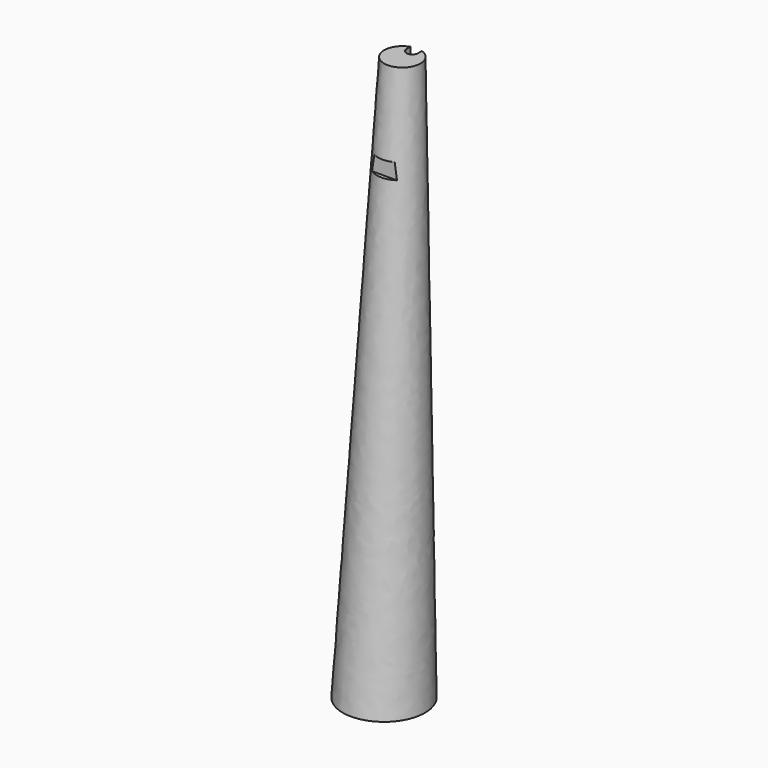
from build123d import *

# Parameters (mm, degrees)
EXTRUDE009_DEPTH       = 500
SKETCH016_W            = 10
SKETCH016_H            = 10
EXTRUDE010_DEPTH       = 4
SKETCH019_R            = 3
EXTRUDE013_DEPTH       = 10.2
SKETCH013_R            = 10.75
SKETCH014_R            = 4.75
CUT008_PLACEMENT_ANGLE = 180


with BuildPart() as mast_slot_tool:
    # Sketch015 (on DatumPlane) → Extrude009 (new body)
    with BuildSketch(Plane(origin=(0, 8, 168), x_dir=(1, 0, 0), z_dir=(0, 0, 1))):
        with BuildLine():
            ThreePointArc((1.5, -8), (0, -6.5), (-1.5, -8))
            Line((-1.5, -8), (-1.5, -13))
            ThreePointArc((-1.5, -13), (0, -14.5), (1.5, -13))
            Line((1.5, -13), (1.5, -8))
        make_face()
    extrude(amount=-EXTRUDE009_DEPTH)


with BuildPart() as mast_zip_tool:
    # Sketch016 (on DatumPlane) → Extrude010 (new body)
    with BuildSketch(Plane.XY.offset(143)):
        with Locations((0, -5)):
            Rectangle(SKETCH016_W, SKETCH016_H)
        with Locations((0, 14.068966)):
            Rectangle(SKETCH016_W, SKETCH016_H)
    extrude(amount=EXTRUDE010_DEPTH)


with BuildPart() as upper_mast_hole:
    # Sketch019 (on DatumPlane) → Extrude013 (new body)
    with BuildSketch(Plane(origin=(0, 20, 23), x_dir=(1, 0, 0), z_dir=(0, 0, 1))):
        with Locations((0, -10.75)):
            Circle(SKETCH019_R)
    extrude(amount=EXTRUDE013_DEPTH)


with BuildPart() as upper_mast:
    # Sketch013 (on DatumPlane) → Loft section 0
    with BuildSketch(Plane(origin=(0, 20, 23), x_dir=(1, 0, 0), z_dir=(0, 0, 1))):
        with Locations((0, -10.75)):
            Circle(SKETCH013_R)
    # Sketch014 (on DatumPlane) → Loft section 1
    with BuildSketch(Plane(origin=(0, 8, 168), x_dir=(1, 0, 0), z_dir=(0, 0, 1))):
        with Locations((0, -4.75)):
            Circle(SKETCH014_R)
    loft()

    # Cut007: cut upper mast hole
    add(upper_mast_hole.part, mode=Mode.SUBTRACT)

    # Cut009: cut mast zip tool
    add(mast_zip_tool.part, mode=Mode.SUBTRACT)

    # Cut008: cut mast slot tool
    add(mast_slot_tool.part, mode=Mode.SUBTRACT)


with BuildPart() as upper_mast_1:
    # Cut008 placement: moved
    add(upper_mast.part.rotate(Axis((0, 0, 0), (0, 0, 1)), CUT008_PLACEMENT_ANGLE))


solid = upper_mast_1.part
